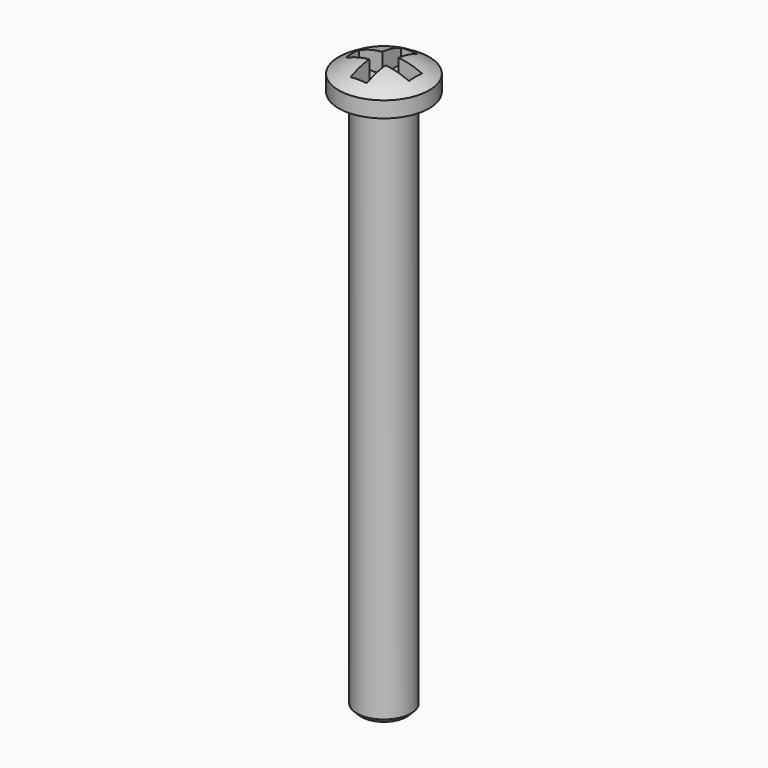
from build123d import *

# Parameters (mm, degrees)
F2_SIZE  = 0.25
F5_DEPTH = 1.16


with BuildPart() as f1:
    # F0 (on Front) → F1 (revolve)
    with BuildSketch(Plane.XZ):
        with BuildLine():
            Line((-2.5, 0), (-1.5, 0))
            Line((-1.5, 0), (-1.5, -30))
            Line((-1.5, -30), (0, -30))
            Line((0, -30), (0, 1.66))
            ThreePointArc((0, 1.66), (-1.309427, 1.460472), (-2.5, 0.88))
            Line((-2.5, 0.88), (-2.5, 0))
        make_face()
    revolve(axis=Axis((0, 0, -14.17), (0, 0, 1)))

    # F2
    f2_edges = [f1.edges().sort_by_distance(p)[0] for p in [
        (1.5, 0, -30),
    ]]
    chamfer(f2_edges, length=F2_SIZE)

    # F4 (on offset) → F5 (cut, through all)
    with BuildSketch(Plane.XY.offset(0.5)):
        Polygon((-0.45, 0.45), (-1.75, 0.45), (-1.75, -0.45), (-0.45, -0.45), (-0.45, -1.75), (0.45, -1.75), (0.45, -0.45), (1.75, -0.45), (1.75, 0.45), (0.45, 0.45), (0.45, 1.75), (-0.45, 1.75), align=None)
    extrude(amount=F5_DEPTH, mode=Mode.SUBTRACT)


solid = f1.part
